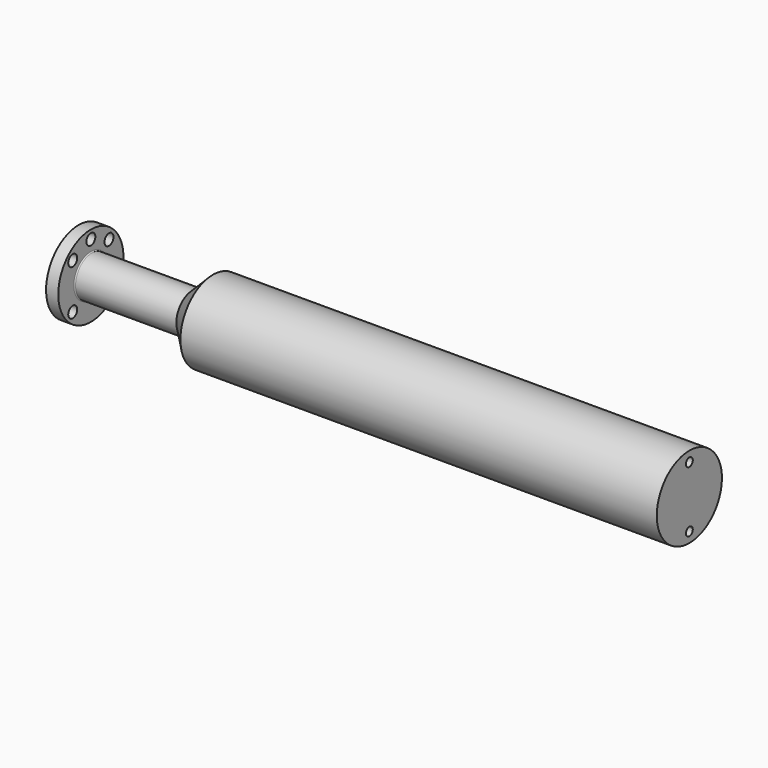
from build123d import *

# Parameters (mm, degrees)
F2_R     = 2.75
F3_DEPTH = 25
F5_D     = 4.2
F5_DEPTH = 22.4
F5_TIP   = 1.2618073


with BuildPart() as f1:
    # F0 (on Front) → F1 (revolve)
    with BuildSketch(Plane.XZ):
        with BuildLine():
            Line((-166.1916986587, 0), (-163.1916986587, 0))
            Line((-163.1916986587, 0), (136.8083013413, 0))
            Line((136.8083013413, 0), (136.8083013413, 20))
            Line((136.8083013413, 20), (-97.1916986587, 20))
            Line((-97.1916986587, 20), (-107.1916986587, 10))
            Line((-107.1916986587, 10), (-156.6916986587, 10))
            ThreePointArc((-156.6916986587, 10), (-157.0452520493, 10.1464466094), (-157.1916986587, 10.5))
            Line((-157.1916986587, 10.5), (-157.1916986587, 20))
            Line((-157.1916986587, 20), (-163.1916986587, 20))
            Line((-163.1916986587, 20), (-163.1916986587, 10.5))
            ThreePointArc((-163.1916986587, 10.5), (-163.3381452681, 10.1464466094), (-163.6916986587, 10))
            Line((-163.6916986587, 10), (-166.1916986587, 10))
            Line((-166.1916986587, 10), (-166.1916986587, 0))
        make_face()
    revolve(axis=Axis((-0.7568523288, 0, 0), (1, 0, 0)))

    # F2 (on face) → F3 (cut)
    with BuildSketch(Plane(origin=(-163.1916986587, 0, 0), x_dir=(0, -1, 0), z_dir=(-1, 0, 0))):
        with Locations((0, 15.75)):
            Circle(F2_R)
        with Locations((-11.1369318037, 11.1369318037)):
            Circle(F2_R)
        with Locations((-11.1369318037, -11.1369318037)):
            Circle(F2_R)
        with Locations((11.1369318037, -11.1369318037)):
            Circle(F2_R)
        with Locations((11.1369318037, 11.1369318037)):
            Circle(F2_R)
    extrude(amount=-F3_DEPTH, mode=Mode.SUBTRACT)

    # F5
    with Locations(Plane.YZ.offset(136.8083013413)):
        with Locations((0, 15), (0, -15)):
            Hole(F5_D / 2, depth=F5_DEPTH)
            with Locations((0, 0, -(F5_DEPTH + F5_TIP / 2))):  # 118° drill point
                Cone(0, F5_D / 2, F5_TIP, mode=Mode.SUBTRACT)


solid = f1.part
